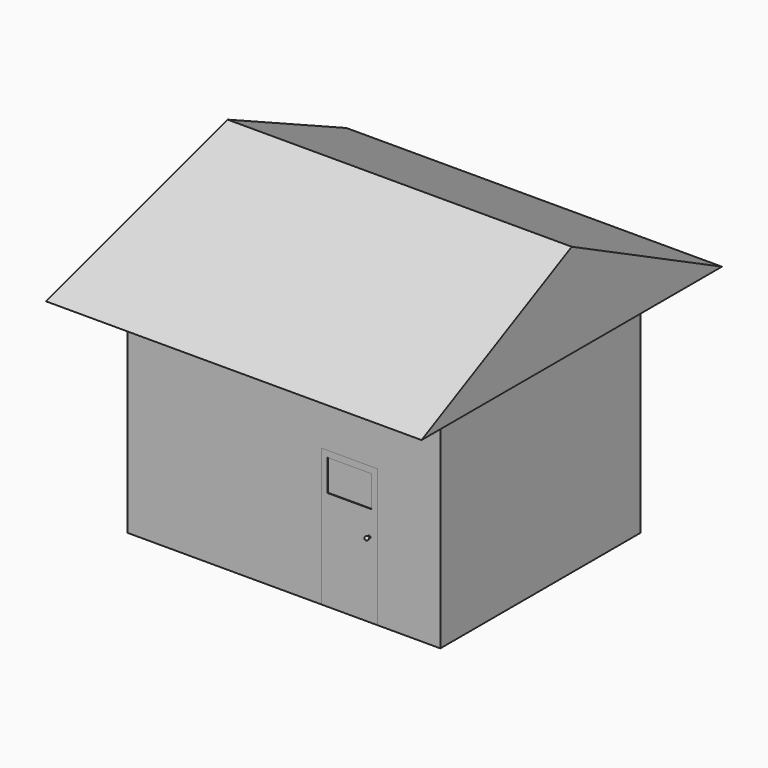
from build123d import *

# Parameters (mm, degrees)
F0_W          = 5
F0_H          = 3.5
F1_DEPTH      = 4
F4_DEPTH      = 0.5
F4_DEPTH_BACK = 5.5
F6_DEPTH      = 25
F6_DEPTH_BACK = 25
F7_T          = -0.1
F2_W          = 0.9
F2_H          = 2.2
F8_DEPTH      = 0.1
F9_W          = 0.9
F9_H          = 2.2
F10_DEPTH     = 0.1
F11_W         = 0.7
F11_H         = 0.5
F12_DEPTH     = 0.01


with BuildPart() as f1:
    # F0 (on Front) → F1 (new body)
    with BuildSketch(Plane.XZ):
        with Locations((0, 1.75)):
            Rectangle(F0_W, F0_H)
    extrude(amount=F1_DEPTH)

    # F3 (on face) → F4 (join, two sides)
    with BuildSketch(Plane.YZ.offset(2.5)) as f4_sk:
        Polygon((-2, 5), (-5, 3.5), (-4, 3.5), (0, 3.5), (1, 3.5), align=None)
    extrude(amount=F4_DEPTH)
    extrude(f4_sk.sketch, amount=-F4_DEPTH_BACK)

    # F5 (on face) → F6 (cut, two sides)
    with BuildSketch(Plane.XZ.offset(4)) as f6_sk:
        Polygon((-3, 5), (-3, 3.5), (-2.5, 5), align=None)
    extrude(amount=-F6_DEPTH, mode=Mode.SUBTRACT)
    extrude(f6_sk.sketch, amount=F6_DEPTH_BACK, mode=Mode.SUBTRACT)

    # F7
    f7_openings = [f1.faces().sort_by_distance(p)[0] for p in [
        (0, -2, 0),
    ]]
    offset(amount=F7_T, openings=f7_openings, kind=Kind.INTERSECTION)

    # F2 (on face) → F8 (cut, through all)
    with BuildSketch(Plane.XZ.offset(4)):
        with Locations((1.05, 1.1)):
            Rectangle(F2_W, F2_H)
    extrude(amount=-F8_DEPTH, mode=Mode.SUBTRACT)


with BuildPart() as f10:
    # F9 (on face) → F10 (new body)
    with BuildSketch(Plane.XZ.offset(4)):
        with Locations((1.05, 1.1)):
            Rectangle(F9_W, F9_H)
    extrude(amount=-F10_DEPTH)

    # F11 (on face) → F12 (cut)
    with BuildSketch(Plane.XZ.offset(4)):
        with Locations((1.05, 1.85)):
            Rectangle(F11_W, F11_H)
    extrude(amount=-F12_DEPTH, mode=Mode.SUBTRACT)

    # F14 (on offset) → F15 (revolve)
    with BuildSketch(Plane(origin=(0, 0, 1.2), x_dir=(1, 0, 0), z_dir=(0, 0, -1))):
        with BuildLine():
            Line((1.3828235336, 4), (1.3828235336, 4.0276393202))
            ThreePointArc((1.3828235336, 4.0276393202), (1.3908487044, 4.0607046627), (1.3628235336, 4.08))
            Line((1.3628235336, 4.08), (1.3628235336, 4.02))
            Line((1.3628235336, 4.02), (1.3628235336, 4))
            Line((1.3628235336, 4), (1.3828235336, 4))
        make_face()
    revolve(axis=Axis((1.3628235336, -4.05, 1.2), (0, -1, 0)))


solid = Compound([f1.part, f10.part])
